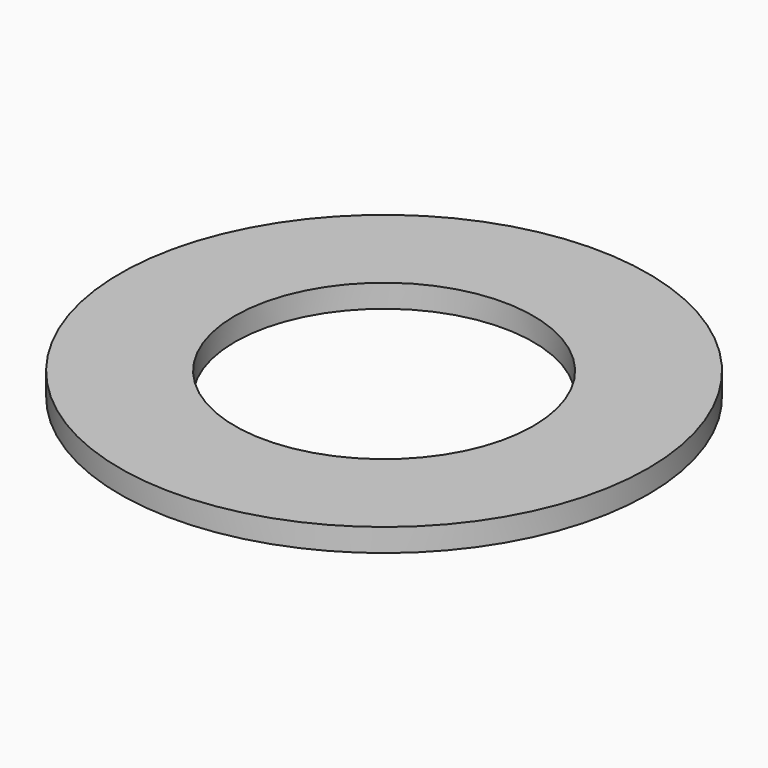
from build123d import *

# Parameters (mm, degrees)
SKETCH_R   = 11.5
SKETCH_R_2 = 6.5
PAD_DEPTH  = 1


with BuildPart() as part:
    # Sketch → Pad (new body)
    with BuildSketch(Plane.XY):
        Circle(SKETCH_R)
        Circle(SKETCH_R_2, mode=Mode.SUBTRACT)
    extrude(amount=PAD_DEPTH)


solid = part.part
